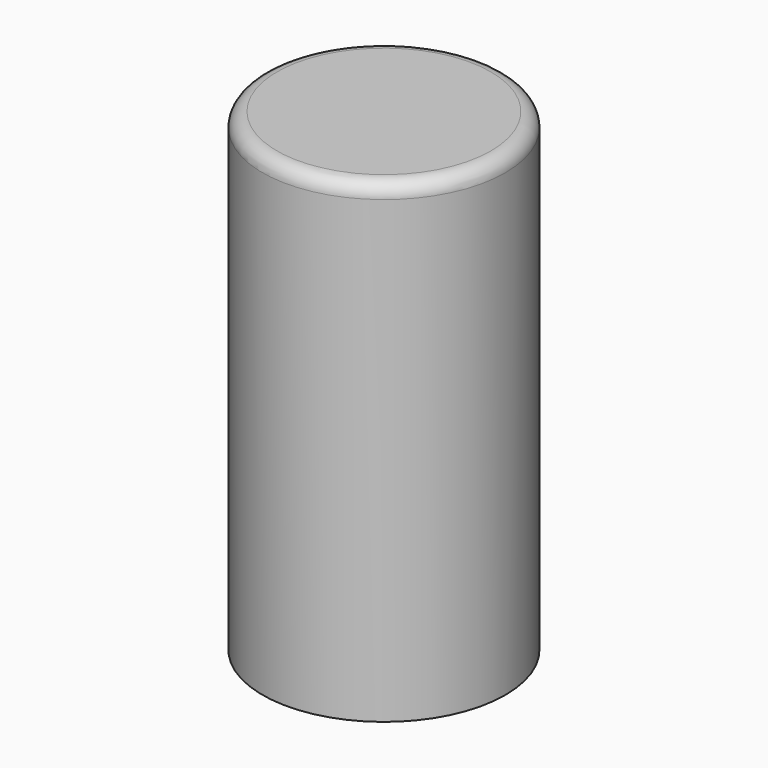
from build123d import *

# Parameters (mm, degrees)
F0_R     = 4.2
F0_W     = 2
F0_H     = 4.4
F0_W_2   = 1
F1_DEPTH = 16.4
F2_DEPTH = 6.2
F3_DEPTH = 14
F4_R     = 0.5


with BuildPart() as f1:
    # F0 (on Top) → F1 (new body)
    with BuildSketch(Plane.XY):
        Circle(F0_R)
        Polygon((-2.5, -2.2), (-2.5, 2.2), (-0.5, 2.2), (0.5, 2.2), (2.5, 2.2), (2.5, -2.2), (0.5, -2.2), (-0.5, -2.2), align=None, mode=Mode.SUBTRACT)
        with Locations((-1.5, 0)):
            Rectangle(F0_W, F0_H)
        with Locations((1.5, 0)):
            Rectangle(F0_W, F0_H)
        Rectangle(F0_W_2, F0_H)
    extrude(amount=F1_DEPTH)

    # F0 (on Top) → F2 (cut)
    with BuildSketch(Plane.XY):
        with Locations((1.5, 0)):
            Rectangle(F0_W, F0_H)
        with Locations((-1.5, 0)):
            Rectangle(F0_W, F0_H)
        Rectangle(F0_W_2, F0_H)
    extrude(amount=F2_DEPTH, mode=Mode.SUBTRACT)

    # F0 (on Top) → F3 (cut)
    with BuildSketch(Plane.XY):
        with Locations((1.5, 0)):
            Rectangle(F0_W, F0_H)
        with Locations((-1.5, 0)):
            Rectangle(F0_W, F0_H)
    extrude(amount=F3_DEPTH, mode=Mode.SUBTRACT)

    # F4
    f4_edges = [f1.edges().sort_by_distance(p)[0] for p in [
        (-4.2, 0, 16.4),
    ]]
    fillet(f4_edges, radius=F4_R)


solid = f1.part
